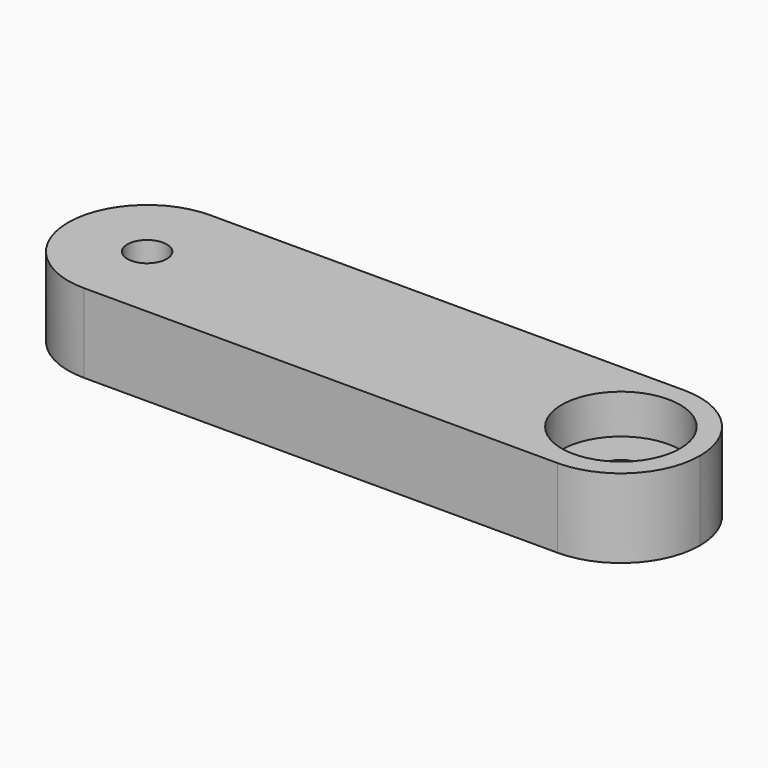
from build123d import *

# Parameters (mm, degrees)
F0_R     = 1.5875
F1_DEPTH = 6.35
F2_R     = 4.7625
F3_DEPTH = 3.175


with BuildPart() as f1:
    # F0 (on Top) → F1 (new body)
    with BuildSketch(Plane.XY):
        with BuildLine():
            ThreePointArc((0, 6.35), (4.490128, 4.490128), (6.35, 0))
            ThreePointArc((6.35, 0), (4.490128, -4.490128), (0, -6.35))
            Line((0, -6.35), (38.1, -6.35))
            ThreePointArc((38.1, -6.35), (31.75, 0), (38.1, 6.35))
            Line((38.1, 6.35), (0, 6.35))
        make_face()
        with BuildLine():
            ThreePointArc((44.45, 0), (42.590128, 4.490128), (38.1, 6.35))
            ThreePointArc((38.1, 6.35), (31.75, 0), (38.1, -6.35))
            ThreePointArc((38.1, -6.35), (42.590128, -4.490128), (44.45, 0))
        make_face()
        with Locations((38.1, 0)):
            Circle(F0_R, mode=Mode.SUBTRACT)
        with BuildLine():
            ThreePointArc((0, -6.35), (4.490128, -4.490128), (6.35, 0))
            ThreePointArc((6.35, 0), (4.490128, 4.490128), (0, 6.35))
            ThreePointArc((0, 6.35), (-6.35, 0), (0, -6.35))
        make_face()
        Circle(F0_R, mode=Mode.SUBTRACT)
    extrude(amount=F1_DEPTH)

    # F2 (on face) → F3 (cut)
    with BuildSketch(Plane.XY.offset(6.35)):
        with Locations((38.1, 0)):
            Circle(F2_R)
    extrude(amount=-F3_DEPTH, mode=Mode.SUBTRACT)


solid = f1.part
